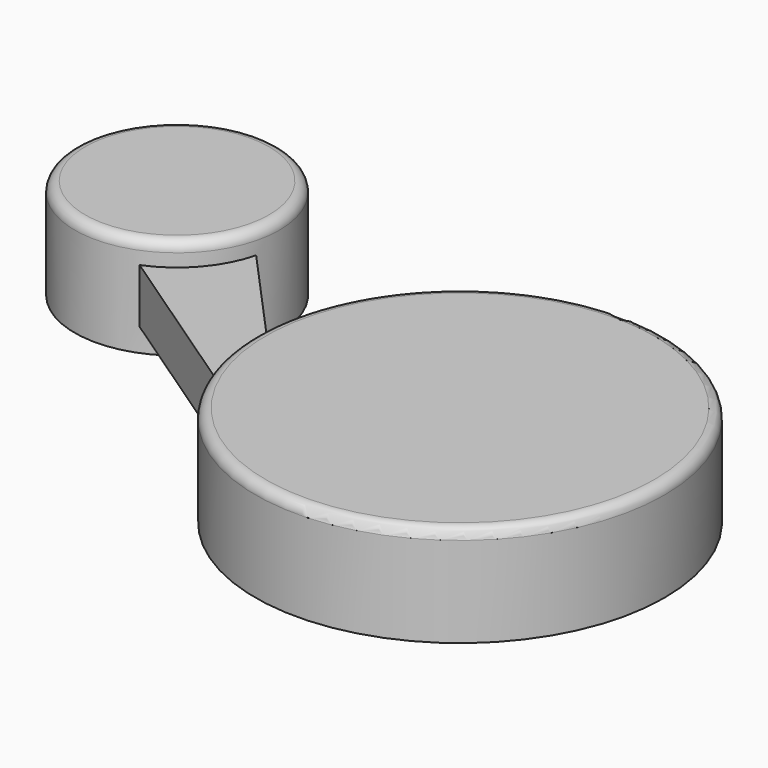
from build123d import *

# Parameters (mm, degrees)
F0_R     = 101.6
F0_R_2   = 50.8
F1_DEPTH = 25
F2_R     = 5.08
F4_DEPTH = 13.5


with BuildPart() as f1:
    # F0 (on Top) → F1 (new body, symmetric)
    with BuildSketch(Plane.XY):
        with Locations((204.801934, 0)):
            Circle(F0_R)
        with Locations((0, 80.350283)):
            Circle(F0_R_2)
    extrude(amount=F1_DEPTH, both=True)

    # F2
    f2_edges = [f1.edges().sort_by_distance(p)[0] for p in [
        (-50.8, 80.350283, 25),
        (103.201934, 0, 25),
    ]]
    fillet(f2_edges, radius=F2_R)

    # F3 (on Top) → F4 (join, symmetric)
    with BuildSketch(Plane.XY):
        Polygon((10.487304, 110.720679), (17.449906, 34.354378), (178.083748, -74.550241), align=None)
    extrude(amount=F4_DEPTH, both=True)


solid = f1.part
